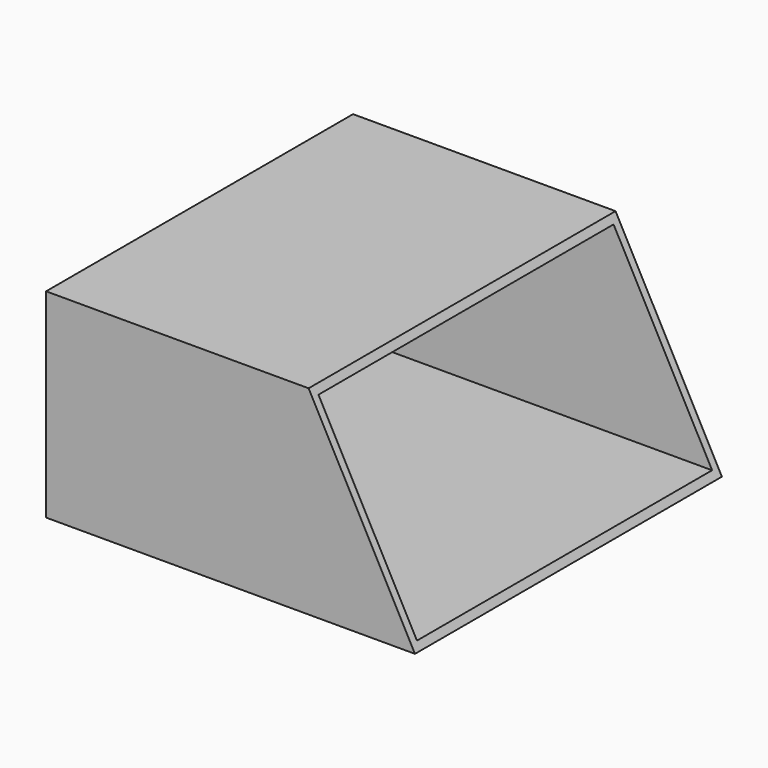
from build123d import *

# Parameters (mm, degrees)
F0_W     = 520
F0_H     = 270
F1_DEPTH = 500
F2_W     = 500
F2_H     = 250
F3_DEPTH = 500
F5_DEPTH = 600


with BuildPart() as f1:
    # F0 (on Right) → F1 (new body)
    with BuildSketch(Plane.YZ):
        Rectangle(F0_W, F0_H)
    extrude(amount=-F1_DEPTH)

    # F2 (on face) → F3 (cut)
    with BuildSketch(Plane.YZ):
        Rectangle(F2_W, F2_H)
    extrude(amount=-F3_DEPTH, mode=Mode.SUBTRACT)

    # F4 (on face) → F5 (cut)
    with BuildSketch(Plane.XZ.offset(260)):
        Polygon((-144.166574, 135), (0, -135), (0, 135), align=None)
    extrude(amount=-F5_DEPTH, mode=Mode.SUBTRACT)


solid = f1.part
